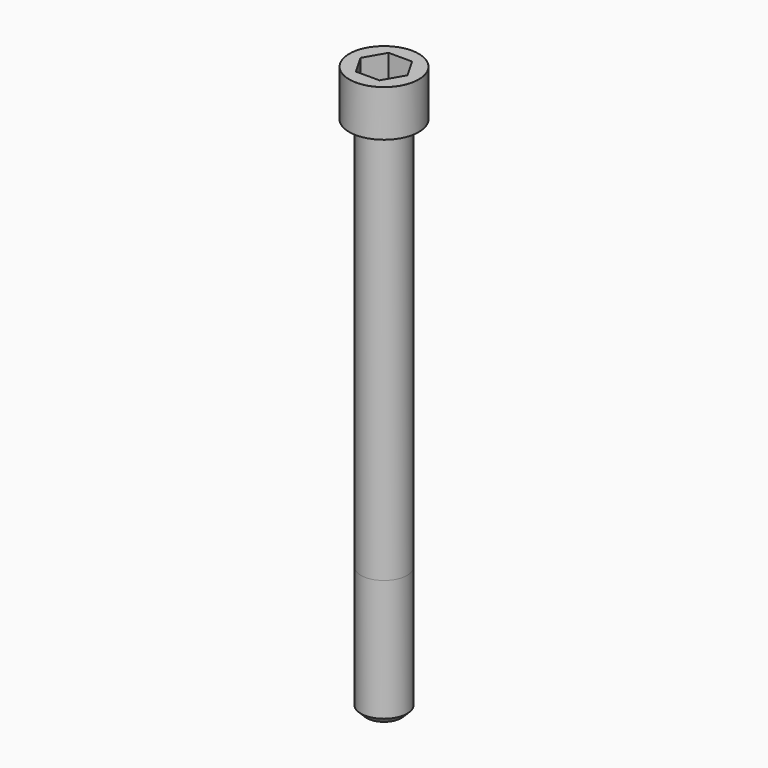
from build123d import *

# Parameters (mm, degrees)
POCKET_DEPTH = 14.08


with BuildPart() as part:
    # Sketch → Revolve (revolve)
    with BuildSketch(Plane.YZ):
        with BuildLine():
            Line((7.999, 0), (12, 0))
            Line((12, 0), (12, 15.97229))
            ThreePointArc((12, 15.97229), (11.991884, 15.991884), (11.97229, 16))
            Line((11.97229, 16), (0, 16))
            Line((0, -180), (0, 16))
            Line((6, -180), (0, -180))
            Line((8, -178), (6, -180))
            Line((8, -136), (8, -178))
            Line((7.999, 0), (8, -136))
        make_face()
    revolve(axis=Axis((0, 0, 0), (0, 0, 1)))

    # Sketch001 → Pocket (cut)
    with BuildSketch(Plane.XY.offset(16)):
        Polygon((8.129092, 0), (4.064546, 7.04), (-4.064546, 7.04), (-8.129092, 0), (-4.064546, -7.04), (4.064546, -7.04), align=None)
    extrude(amount=-POCKET_DEPTH, mode=Mode.SUBTRACT)


solid = part.part
